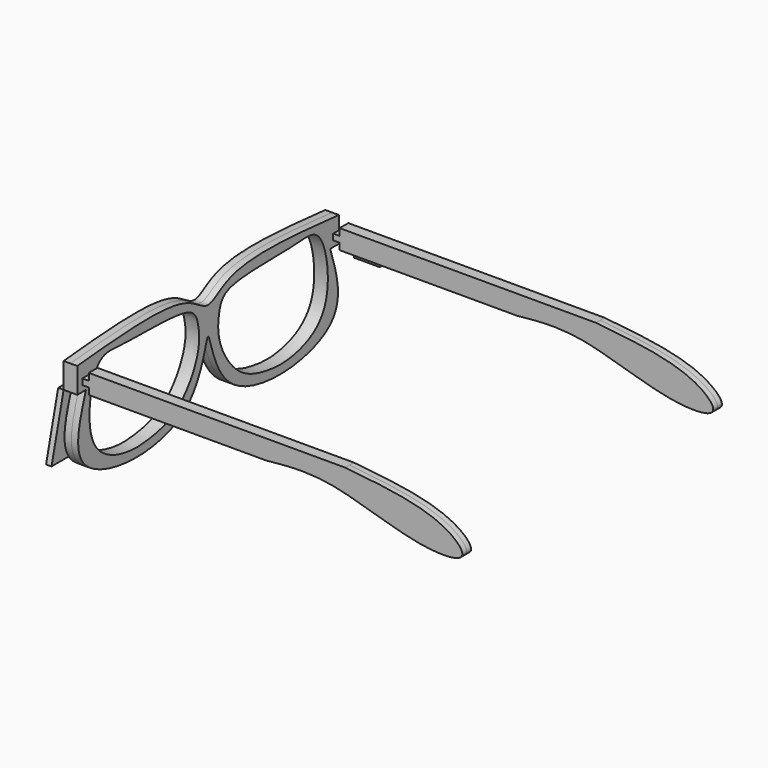
from build123d import *

# Parameters (mm, degrees)
F1_DEPTH  = 1
F5_DEPTH  = 1.25
F9_DEPTH  = 72.60917
F11_DEPTH = 1
F12_R     = 1.1714885088
F13_DEPTH = 0.5
F12_R_2   = 1.0851212976
F14_W     = 4.7135371715
F14_H     = 1.0194650386
F15_DEPTH = 1
F17_DEPTH = 2


with BuildPart() as f1:
    # F0 (on Front) → F1 (new body, symmetric)
    with BuildSketch(Plane.XZ):
        with BuildLine():
            Line((-30.174251756, 1.2062735993), (-30.174251756, 0))
            Line((-30.174251756, 0), (2.3211173062, 0))
            add(Edge.make_bspline(
                [(16.8441893544, 3.5662727868), (23.6019558205, 2.885131836), (33.9524180251, 1.8418694352), (40.6447818836, -4.6867421893), (29.4769401026, -5.0961041553), (14.272677484, 1.1863903468), (6.0317804343, 0.3683447893), (2.3211173062, 0)],
                knots=[0, 0, 0, 0, 0.2532832779, 0.3879386788, 0.5487089183, 0.7967952801, 1, 1, 1, 1], degree=3))
            Line((16.8441893544, 3.5662727868), (-30.174251756, 3.5662727868))
            Line((-30.174251756, 3.5662727868), (-30.174251756, 2.2955040203))
            Line((-30.174251756, 2.2955040203), (-31.354251756, 2.2955040203))
            Line((-31.354251756, 2.2955040203), (-31.354251756, 1.2062735993))
            Line((-31.354251756, 1.2062735993), (-30.174251756, 1.2062735993))
        make_face()
    extrude(amount=F1_DEPTH, both=True)


with BuildPart() as f2_1:
    # F2: instance of F1
    add(f1.part.mirror(Plane(origin=(6.2768743247, -1, 0.8425026483), x_dir=(1, 0, 0), z_dir=(0, -1, 0))))


with BuildPart() as f2_1_1:
    # F3: moved
    add(f2_1.part.moved(Location((0, 50.13192, 0))))

    # F14 (on face) → F15 (join)
    with BuildSketch(Plane(origin=(0, 49.13192, 0), x_dir=(-1, 0, 0), z_dir=(0, 1, 0))):
        with Locations((25.9415181354, -0.5097325193)):
            Rectangle(F14_W, F14_H)
    extrude(amount=-F15_DEPTH)


with BuildPart() as f5:
    # F4 (on Right) → F5 (new body, symmetric)
    with BuildSketch(Plane.YZ):
        with BuildLine():
            Line((53.3973998111, 23.6164352365), (53.3973998111, 28.2766313784))
            add(Edge.make_bspline(
                [(53.3973998111, 28.2766313784), (43.4361421349, 29.1936697324), (28.7957301873, 30.5414733643), (23.3973998111, 24.4779657923), (17.9990694348, 30.5414733643), (3.3586574872, 29.1936697324), (-6.6026001889, 28.2766313784)],
                knots=[0, 0, 0, 0, 0.3401973152, 0.5, 0.6598026848, 1, 1, 1, 1], degree=3))
            Line((-6.6026001889, 28.2766313784), (-6.6026001889, 23.6164352365))
            Line((-6.6026001889, 23.6164352365), (-4.6026001889, 23.6164352365))
            add(Edge.make_bspline(
                [(51.3973998111, 23.6164352365), (52.9487811881, 18.9768636833), (56.627106664, 7.9764388399), (25.2702029081, 5.824783358), (23.3973998111, 26.9414349498), (21.524596714, 5.824783358), (-9.8323070419, 7.9764388399), (-6.153981566, 18.9768636833), (-4.6026001889, 23.6164352365)],
                knots=[0, 0, 0, 0, 0.1512202085, 0.358543137, 0.5, 0.641456863, 0.8487797915, 1, 1, 1, 1], degree=3))
            Line((51.3973998111, 23.6164352365), (53.3973998111, 23.6164352365))
        make_face()
    extrude(amount=F5_DEPTH, both=True)


with BuildPart() as f5_1:
    # F6: moved
    add(f5.part.moved(Location((-33.23082, -4.17263, -24.02908))))

    # F8 (on Right) → F9 (cut)
    with BuildSketch(Plane.YZ):
        with BuildLine():
            add(Edge.make_bspline(
                [(16.8610401452, -0.0175764271), (16.5894733362, 1.0708497426), (15.3836835282, 3.823106158), (-0.1516398066, 3.0708605215), (-7.1799649482, 4.6214824667), (-9.5144907522, -11.0293303408), (0.0138191568, -14.7082291027), (5.9563672206, -14.3620685577), (12.822156487, -12.7326280271), (17.5812558052, -5.2319773883), (17.1976335285, -1.36662585), (16.8610401452, -0.0175764271)],
                knots=[0, 0, 0, 0, 0.0726502403, 0.2292989865, 0.3294595924, 0.4699359978, 0.5887189184, 0.688131282, 0.7930068823, 0.9099536859, 1, 1, 1, 1], degree=3))
        make_face()
        with BuildLine():
            add(Edge.make_bspline(
                [(21.8610401452, 0), (22.134362108, 1.0868917744), (23.3456244839, 3.8099635491), (38.8736910908, 3.0732821109), (45.902176597, 4.6213370686), (48.2358540905, -11.0327903644), (38.7103173043, -14.6977498705), (32.7545939724, -14.3949140454), (25.9271732178, -12.5937307756), (21.1316504035, -5.2495789121), (21.5209385457, -1.3524475931), (21.8610401452, 0)],
                knots=[0, 0, 0, 0, 0.0725146556, 0.2292067085, 0.329395005, 0.4699102469, 0.5887260073, 0.6881658547, 0.7933230286, 0.9097681354, 1, 1, 1, 1], degree=3))
        make_face()
    extrude(amount=-F9_DEPTH, mode=Mode.SUBTRACT)


with BuildPart() as f1_1:
    # F7: moved
    add(f1.part.moved(Location((0, -9.39365, 0))))

    # F16 (on face) → F17 (cut)
    with BuildSketch(Plane(origin=(0, 0, 0), x_dir=(1, 0, 0), z_dir=(0, 0, -1))):
        Polygon((-24.5026946068, 9.8477602005), (-26.367507875, 9.8911281675), (-27.0103704455, 9.1105084866), (-24.0256488323, 9.1105084866), align=None)
    extrude(amount=-F17_DEPTH, mode=Mode.SUBTRACT)


with BuildPart() as f11:
    # F10 (on face) → F11 (new body)
    with BuildSketch(Plane(origin=(-34.48082, 0, 0), x_dir=(0, -1, 0), z_dir=(-1, 0, 0))):
        with BuildLine():
            Line((-51.985565573, -11.7281051353), (-48.0104084149, -11.7281051353))
            add(Edge.make_bspline(
                [(-47.2247698111, -0.4126447635), (-48.6233884734, -4.5953631174), (-50.0220071358, -8.7780814714), (-48.0104084149, -11.7281051353)],
                knots=[0, 0, 0, 0, 0.136329731, 0.136329731, 0.136329731, 0.136329731], degree=3))
            Line((-47.2247698111, -0.4126447635), (-49.2247698111, -0.4126447635))
            Line((-49.2247698111, -0.4126447635), (-51.985565573, -11.7281051353))
        make_face()
    extrude(amount=F11_DEPTH)


with BuildPart() as f11b:
    # F10 (on face) → F11, piece 2 (new body)
    with BuildSketch(Plane(origin=(-34.48082, 0, 0), x_dir=(0, -1, 0), z_dir=(-1, 0, 0))):
        with BuildLine():
            Line((13.5512491688, -11.6694858298), (10.7752301889, -0.4126447635))
            Line((10.7752301889, -0.4126447635), (8.7752301889, -0.4126447635))
            add(Edge.make_bspline(
                [(9.6087765226, -11.6566400381), (11.5499550832, -8.7107556458), (10.1625926361, -4.5617002046), (8.7752301889, -0.4126447635)],
                knots=[0.8647674636, 0.8647674636, 0.8647674636, 0.8647674636, 1, 1, 1, 1], degree=3))
            Line((9.6087765226, -11.6566400381), (13.5512491688, -11.6694858298))
        make_face()
    extrude(amount=F11_DEPTH)


with BuildPart() as f13:
    # F12 (on face) → F13 (new body)
    with BuildSketch(Plane(origin=(-34.48082, 0, 0), x_dir=(0, -1, 0), z_dir=(-1, 0, 0))):
        with Locations((8.8527891785, 2.4458977859)):
            Circle(F12_R)
    extrude(amount=F13_DEPTH)


with BuildPart() as f13b:
    # F12 (on face) → F13, piece 2 (new body)
    with BuildSketch(Plane(origin=(-34.48082, 0, 0), x_dir=(0, -1, 0), z_dir=(-1, 0, 0))):
        with Locations((-46.9050109386, 2.6553790085)):
            Circle(F12_R_2)
    extrude(amount=F13_DEPTH)


solid = Compound([f2_1_1.part, f5_1.part, f1_1.part, f11.part, f11b.part, f13.part, f13b.part])
